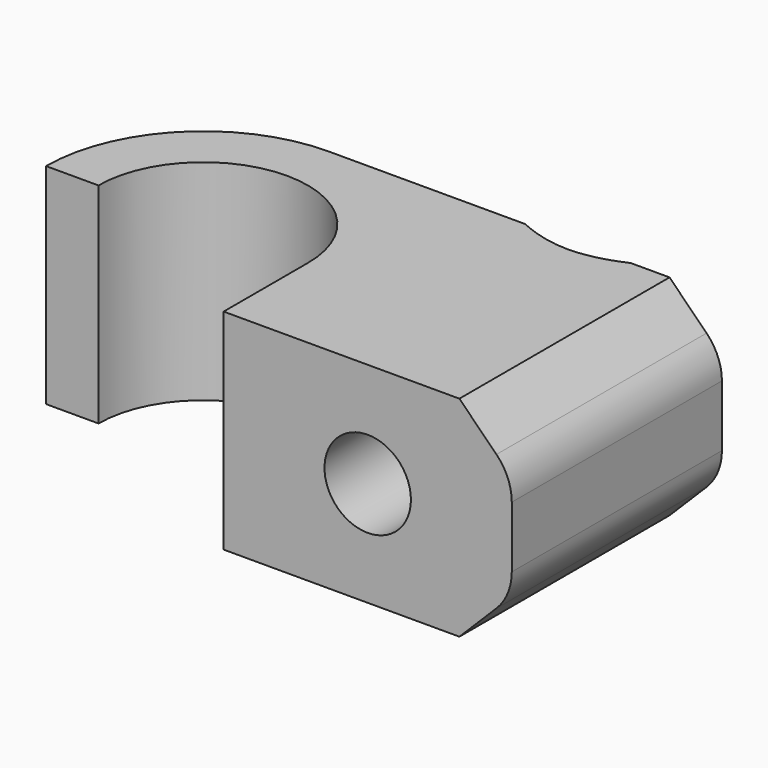
from build123d import *

# Parameters (mm, degrees)
F1_DEPTH       = 4
F3_D           = 3.3
F3_CSINK_D     = 8.96
F3_CSINK_ANGLE = 90
F4_SIZE        = 2
F5_R           = 2


with BuildPart() as f1:
    # F0 (on Top) → F1 (new body, symmetric)
    with BuildSketch(Plane.XY):
        with BuildLine():
            ThreePointArc((-4, 0), (0, 4), (4, 0))
            Line((4, 0), (4, -4.0273182094))
            Line((4, -4.0273182094), (15, -4.0273182094))
            Line((15, -4.0273182094), (15, 6))
            Line((15, 6), (0, 6))
            ThreePointArc((0, 6), (-4.2426406871, 4.2426406871), (-6, 0))
            Line((-6, 0), (-4, 0))
        make_face()
    extrude(amount=F1_DEPTH, both=True)

    # F3 (through all)
    with Locations(Plane(origin=(0, 6, 0), x_dir=(-1, 0, 0), z_dir=(0, 1, 0))):
        with Locations((-9.5, 0)):
            CounterSinkHole(F3_D / 2, F3_CSINK_D / 2, counter_sink_angle=F3_CSINK_ANGLE)

    # F4
    f4_edges = [f1.edges().sort_by_distance(p)[0] for p in [
        (15, 0.986341, -4),
        (15, 0.986341, 4),
    ]]
    chamfer(f4_edges, length=F4_SIZE)

    # F5
    f5_edges = [f1.edges().sort_by_distance(p)[0] for p in [
        (15, 0.986341, -2),
        (15, 0.986341, 2),
    ]]
    fillet(f5_edges, radius=F5_R)


solid = f1.part
